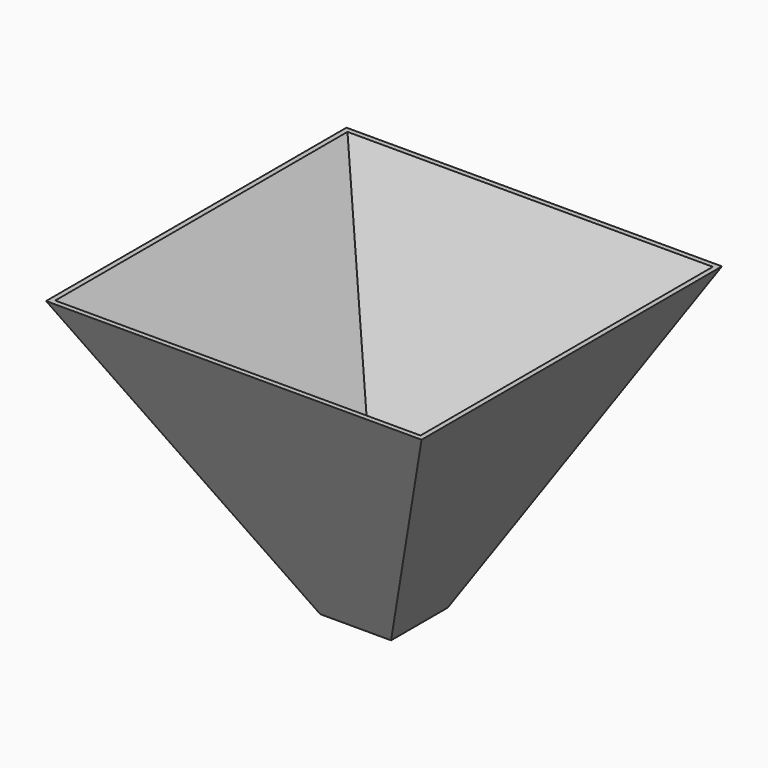
from build123d import *

# Parameters (mm, degrees)
F0_W     = 100
F0_H     = 100
F2_W     = 530
F2_H     = 530
F4_T     = -6.35
F5_DEPTH = 25.4


with BuildPart() as f3:
    # F0 (on Top) → F3 section 0
    with BuildSketch(Plane.XY):
        Rectangle(F0_W, F0_H)
    # F2 (on offset) → F3 section 1
    with BuildSketch(Plane.XY.offset(406.66)):
        Rectangle(F2_W, F2_H)
    loft()

    # F4
    f4_openings = [f3.faces().sort_by_distance(p)[0] for p in [
        (0, 0, 406.66),
    ]]
    offset(amount=F4_T, openings=f4_openings)

    # F5 (cut): a face of the model
    f5_faces = [f3.faces().sort_by_distance(p)[0] for p in [
        (0, 0, 0),
    ]]
    extrude(f5_faces, amount=-F5_DEPTH, mode=Mode.SUBTRACT)


solid = f3.part
